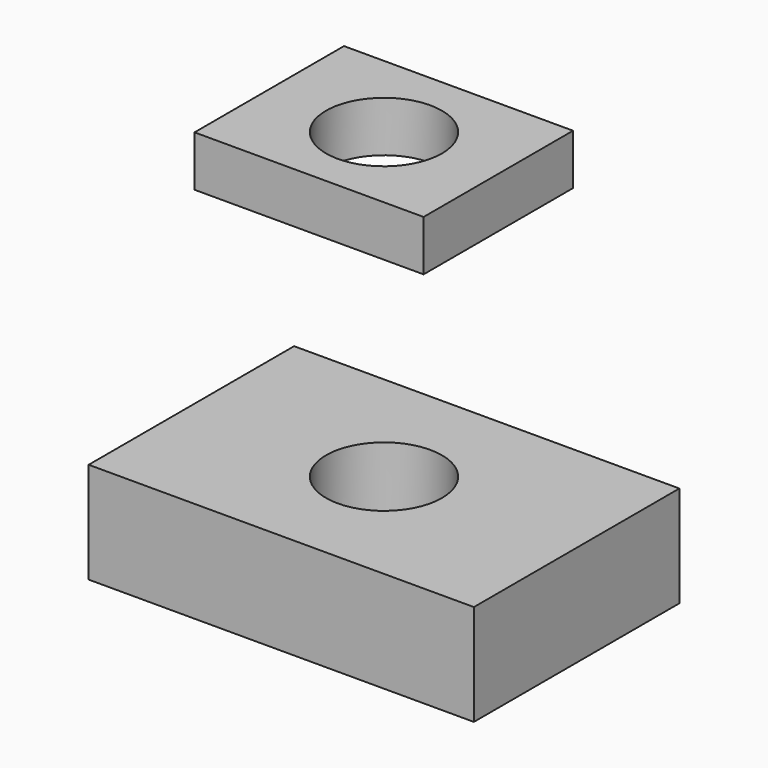
from build123d import *

# Parameters (mm, degrees)
F0_W     = 38.1
F0_H     = 25.4
F0_R     = 5.731056
F1_DEPTH = 10
F4_W     = 22.653234
F4_H     = 18.476042
F4_R     = 5.731056
F5_DEPTH = 5


with BuildPart() as f1:
    # F0 (on Top) → F1 (new body)
    with BuildSketch(Plane.XY):
        Rectangle(F0_W, F0_H)
        Circle(F0_R, mode=Mode.SUBTRACT)
    extrude(amount=F1_DEPTH)


with BuildPart() as f5:
    # F4 (on offset) → F5 (new body)
    with BuildSketch(Plane.XY.offset(35)):
        with Locations((-0.069145, 0.060248)):
            Rectangle(F4_W, F4_H)
        Circle(F4_R, mode=Mode.SUBTRACT)
    extrude(amount=F5_DEPTH)


solid = Compound([f1.part, f5.part])
